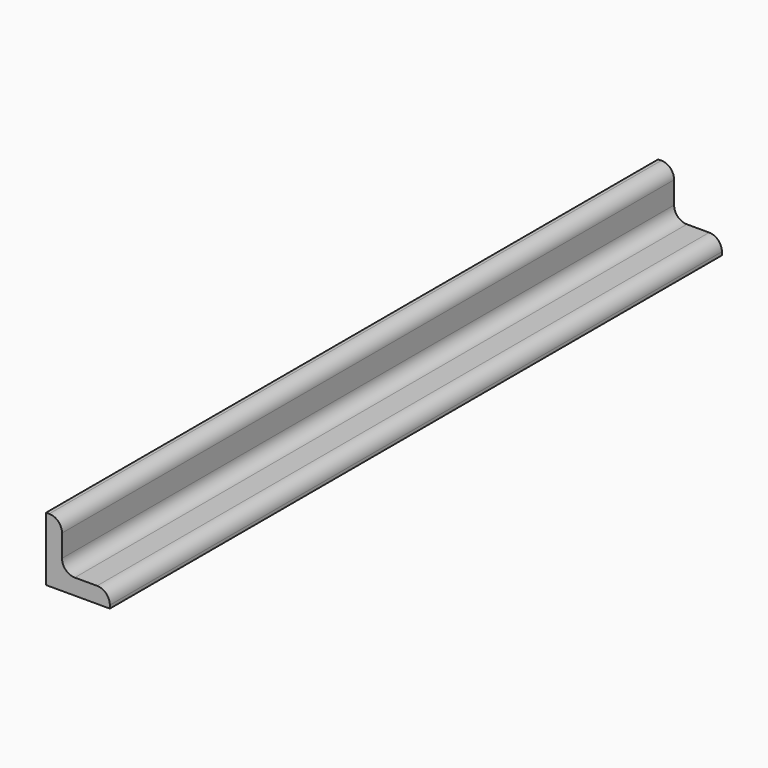
from build123d import *

# Parameters (mm, degrees)
F1_DEPTH = 304.8


with BuildPart() as f1:
    # F0 (on Front) → F1 (new body)
    with BuildSketch(Plane.XZ):
        with BuildLine():
            Line((0, 25.4), (0, 0))
            Line((0, 0), (25.4, 0))
            Line((25.4, 0), (25.4, 1.27))
            ThreePointArc((25.4, 1.27), (23.912102, 4.862102), (20.32, 6.35))
            Line((20.32, 6.35), (11.43, 6.35))
            ThreePointArc((11.43, 6.35), (7.837898, 7.837897), (6.35, 11.43))
            Line((6.35, 11.43), (6.35, 20.32))
            ThreePointArc((6.35, 20.32), (4.862102, 23.912102), (1.27, 25.4))
            Line((1.27, 25.4), (0, 25.4))
        make_face()
    extrude(amount=F1_DEPTH)


solid = f1.part
